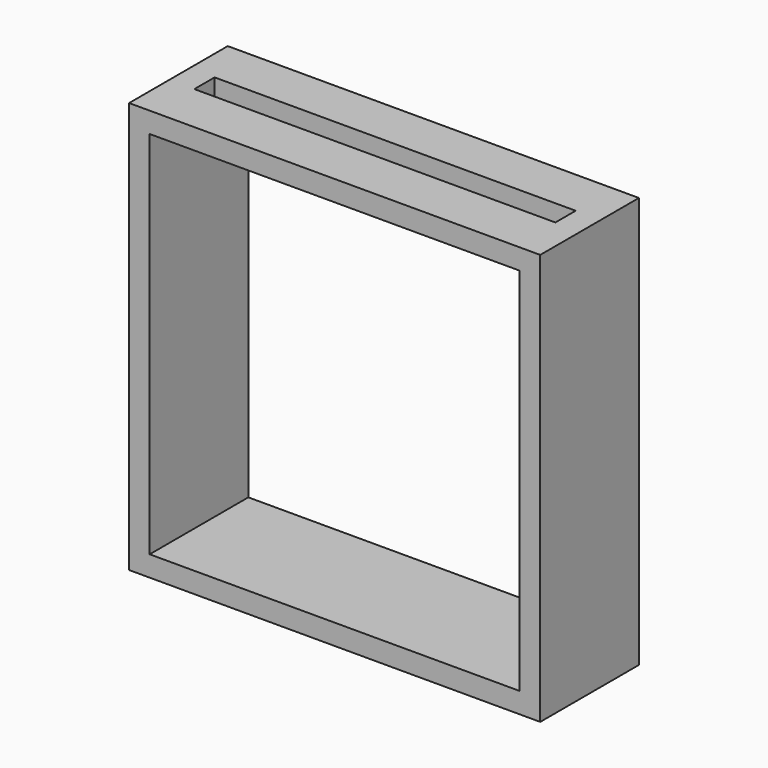
from build123d import *

# Parameters (mm, degrees)
F0_W     = 100
F0_H     = 100
F0_W_2   = 90
F0_H_2   = 90
F1_DEPTH = 30
F2_W     = 87.822602
F2_H     = 6.169355
F3_DEPTH = 25


with BuildPart() as f1:
    # F0 (on Front) → F1 (new body)
    with BuildSketch(Plane.XZ):
        Rectangle(F0_W, F0_H)
        Rectangle(F0_W_2, F0_H_2, mode=Mode.SUBTRACT)
    extrude(amount=F1_DEPTH)

    # F2 (on face) → F3 (cut)
    with BuildSketch(Plane.XY.offset(50)):
        with Locations((0, -14.697582)):
            Rectangle(F2_W, F2_H)
    extrude(amount=-F3_DEPTH, mode=Mode.SUBTRACT)


solid = f1.part
